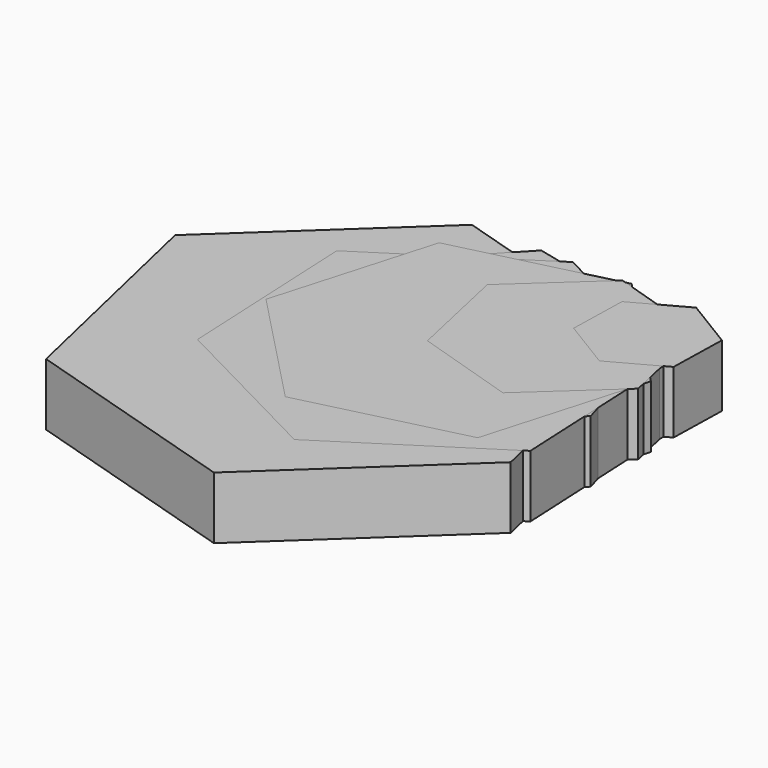
from build123d import *

# Parameters (mm, degrees)
PAD_DEPTH    = 10
PAD001_DEPTH = 10
PAD002_DEPTH = 10
PAD003_DEPTH = 10
PAD004_DEPTH = 10
PAD005_DEPTH = 10
PAD006_DEPTH = 10
PAD007_DEPTH = 10
PAD008_DEPTH = 10
PAD009_DEPTH = 10
PAD010_DEPTH = 10


with BuildPart() as body001:
    # Sketch → Pad (new body)
    with BuildSketch(Plane.XY):
        Polygon((0, 0), (35.730759, -10.942726), (63.072817, 14.529657), (54.684116, 50.944764), (18.953357, 61.88749), (-8.388701, 36.415108), align=None)
    extrude(amount=PAD_DEPTH)


with BuildPart() as body001_1:
    # Body001 placement: moved
    add(body001.part.moved(Location((-63.072817, -61.88749, 0))))


with BuildPart() as body:
    # Sketch001 → Pad001 (new body)
    with BuildSketch(Plane.XY):
        Polygon((0, 0), (16.229028, -5.127638), (28.784207, 6.363294), (25.110358, 22.981864), (8.881329, 28.109502), (-3.67385, 16.61857), align=None)
    extrude(amount=PAD001_DEPTH)


with BuildPart() as body_1:
    # Body placement: moved
    add(body.part.moved(Location((-28.784207, -28.109502, 0))))


with BuildPart() as body002:
    # Sketch002 → Pad002 (new body)
    with BuildSketch(Plane.XY):
        Polygon((0, 0), (18.058287, 19.034859), (10.60276, 44.191224), (-14.911055, 50.31273), (-32.969343, 31.277871), (-25.513815, 6.121506), align=None)
    extrude(amount=PAD002_DEPTH)


with BuildPart() as body002_1:
    # Body002 placement: moved
    add(body002.part.moved(Location((-18.058287, -50.31273, 0))))


with BuildPart() as body003:
    # Sketch003 → Pad003 (new body)
    with BuildSketch(Plane.XY):
        Polygon((0, 0), (-8.070428, 4.915804), (-16.362853, 0.38451), (-16.58485, -9.062588), (-8.514422, -13.978392), (-0.221997, -9.447098), align=None)
    extrude(amount=PAD003_DEPTH)


with BuildPart() as body003_1:
    # Body003 placement: moved
    add(body003.part.moved(Location((0, -4.915804, 0))))


with BuildPart() as body004:
    # Sketch004 → Pad004 (new body)
    with BuildSketch(Plane.XY):
        Polygon((0, 0), (1.421615, -29.758589), (27.904117, -43.406729), (52.965004, -27.29628), (51.543389, 2.46231), (25.060887, 16.11045), align=None)
    extrude(amount=PAD004_DEPTH)


with BuildPart() as body004_1:
    # Body004 placement: moved
    add(body004.part.moved(Location((-52.965004, -16.11045, 0))))


with BuildPart() as body005:
    # Sketch005 → Pad005 (new body)
    with BuildSketch(Plane.XY):
        Polygon((0, 0), (-18.448006, 19.18032), (-44.282653, 12.794037), (-51.669294, -12.772565), (-33.221288, -31.952884), (-7.386641, -25.566602), align=None)
    extrude(amount=PAD005_DEPTH)


with BuildPart() as body005_1:
    # Body005 placement: moved
    add(body005.part.moved(Location((0, -19.18032, 0))))


with BuildPart() as body006:
    # Sketch006 → Pad006 (new body)
    with BuildSketch(Plane.XY):
        Polygon((0, 0), (16.229028, -5.127638), (28.784207, 6.363294), (25.110358, 22.981864), (8.881329, 28.109502), (-3.67385, 16.61857), align=None)
    extrude(amount=PAD006_DEPTH)


with BuildPart() as body006_1:
    # Body006 placement: moved
    add(body006.part.moved(Location((-28.784207, -28.109502, 0))))


with BuildPart() as body007:
    # Sketch007 → Pad007 (new body)
    with BuildSketch(Plane.XY):
        Polygon((0, 0), (16.229028, -5.127638), (28.784207, 6.363294), (25.110358, 22.981864), (8.881329, 28.109502), (-3.67385, 16.61857), align=None)
    extrude(amount=PAD007_DEPTH)


with BuildPart() as body007_1:
    # Body007 placement: moved
    add(body007.part.moved(Location((-28.784207, -28.109502, 0))))


with BuildPart() as body008:
    # Sketch008 → Pad008 (new body)
    with BuildSketch(Plane.XY):
        Polygon((0, 0), (-8.070428, 4.915804), (-16.362853, 0.38451), (-16.58485, -9.062588), (-8.514422, -13.978392), (-0.221997, -9.447098), align=None)
    extrude(amount=PAD008_DEPTH)


with BuildPart() as body008_1:
    # Body008 placement: moved
    add(body008.part.moved(Location((0, -4.915804, 0))))


with BuildPart() as body009:
    # Sketch009 → Pad009 (new body)
    with BuildSketch(Plane.XY):
        Polygon((0, 0), (-8.070428, 4.915804), (-16.362853, 0.38451), (-16.58485, -9.062588), (-8.514422, -13.978392), (-0.221997, -9.447098), align=None)
    extrude(amount=PAD009_DEPTH)


with BuildPart() as body009_1:
    # Body009 placement: moved
    add(body009.part.moved(Location((0, -4.915804, 0))))


with BuildPart() as body010:
    # Sketch010 → Pad010 (new body)
    with BuildSketch(Plane.XY):
        Polygon((0, 0), (-8.070428, 4.915804), (-16.362853, 0.38451), (-16.58485, -9.062588), (-8.514422, -13.978392), (-0.221997, -9.447098), align=None)
    extrude(amount=PAD010_DEPTH)


with BuildPart() as body010_1:
    # Body010 placement: moved
    add(body010.part.moved(Location((0, -4.915804, 0))))


solid = Compound([body001_1.part, body_1.part, body002_1.part, body003_1.part, body004_1.part, body005_1.part, body006_1.part, body007_1.part, body008_1.part, body009_1.part, body010_1.part])
